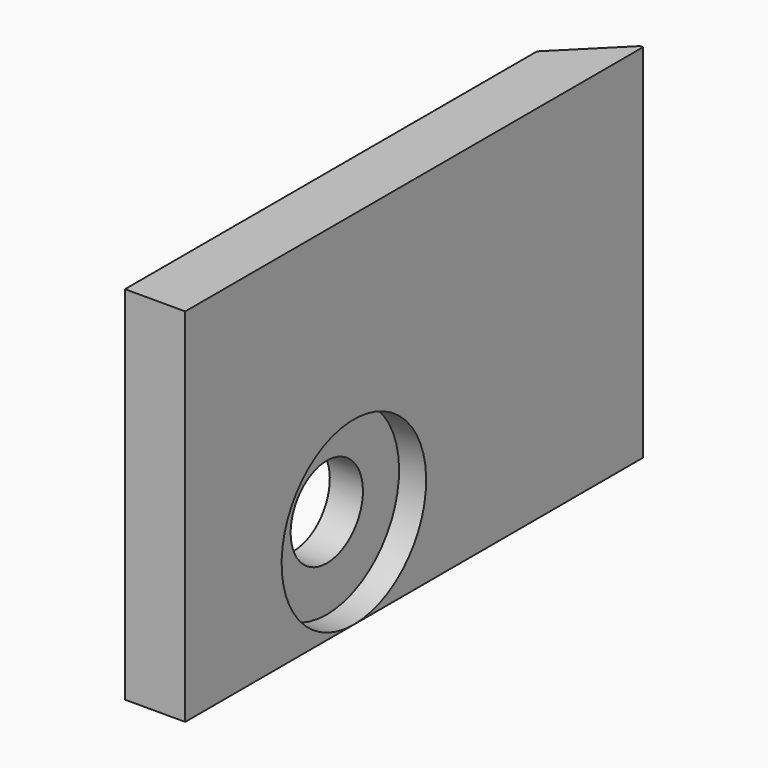
from build123d import *

# Parameters (mm, degrees)
CYLINDER3124_R               = 3
CYLINDER3124_DEPTH           = 3
COMPOUND1375_PLACEMENT_ANGLE = 90
CYLINDER3123_R               = 1.5
CYLINDER3123_DEPTH           = 12
CYLINDER3126_R               = 1.5
CYLINDER3126_DEPTH           = 4
BOX1133_W                    = 6
BOX1133_H                    = 6
BOX1133_DEPTH                = 2
COMPOUND1373_PLACEMENT_ANGLE = 90
BOX1134_W                    = 2
BOX1134_H                    = 19
BOX1134_DEPTH                = 12
CHAMFER182_SIZE              = 1.9


with BuildPart() as compound1375:
    # Cylinder3124 → Cylinder3124 (new body)
    with BuildSketch(Plane(origin=(1, 14, 6), x_dir=(1, 0, 0), z_dir=(0, 0, 1))):
        Circle(CYLINDER3124_R)
    extrude(amount=CYLINDER3124_DEPTH)


with BuildPart() as compound1375_1:
    # Compound1375 placement: moved
    add(compound1375.part.moved(Location((16.5, 73, 2))).rotate(Axis((16.5, 73, 2), (0, 1, 0)), COMPOUND1375_PLACEMENT_ANGLE))


with BuildPart() as obj1:
    # Cylinder3123 → Cylinder3123 (new body)
    with BuildSketch(Plane(origin=(1, 14, 6), x_dir=(1, 0, 0), z_dir=(0, 0, 1))):
        Circle(CYLINDER3123_R)
    extrude(amount=CYLINDER3123_DEPTH)


with BuildPart() as obj2:
    # Cylinder3126 → Cylinder3126 (new body)
    with BuildSketch(Plane(origin=(1, 14, -0.1), x_dir=(1, 0, 0), z_dir=(0, 0, 1))):
        Circle(CYLINDER3126_R)
    extrude(amount=CYLINDER3126_DEPTH)


with BuildPart() as compound1373:
    # Box1133 → Box1133 (new body)
    with BuildSketch(Plane(origin=(-2, 11, 4), x_dir=(1, 0, 0), z_dir=(0, 0, 1))):
        with Locations((3, 3)):
            Rectangle(BOX1133_W, BOX1133_H)
    extrude(amount=BOX1133_DEPTH)

    # Compound1373: union obj1, obj2
    add(obj1.part)
    add(obj2.part)


with BuildPart() as compound1373_1:
    # Compound1373 placement: moved
    add(compound1373.part.moved(Location((6, 73, 2))).rotate(Axis((6, 73, 2), (0, 1, 0)), COMPOUND1373_PLACEMENT_ANGLE))


with BuildPart() as chamfer182:
    # Box1134 → Box1134 (new body)
    with BuildSketch(Plane(origin=(21.4, 80, -2), x_dir=(1, 0, 0), z_dir=(0, 0, 1))):
        with Locations((1, 9.5)):
            Rectangle(BOX1134_W, BOX1134_H)
    extrude(amount=BOX1134_DEPTH)

    # Cut1268: cut Compound1373
    add(compound1373_1.part, mode=Mode.SUBTRACT)

    # Cut1269: cut Compound1375
    add(compound1375_1.part, mode=Mode.SUBTRACT)

    # Chamfer182
    chamfer182_edges = [chamfer182.edges().sort_by_distance(p)[0] for p in [
        (21.4, 99, 4),
    ]]
    chamfer(chamfer182_edges, length=CHAMFER182_SIZE)


with BuildPart() as chamfer182_1:
    # Chamfer182 placement: moved
    add(chamfer182.part.moved(Location((0.2, 3, 0))))


solid = chamfer182_1.part
